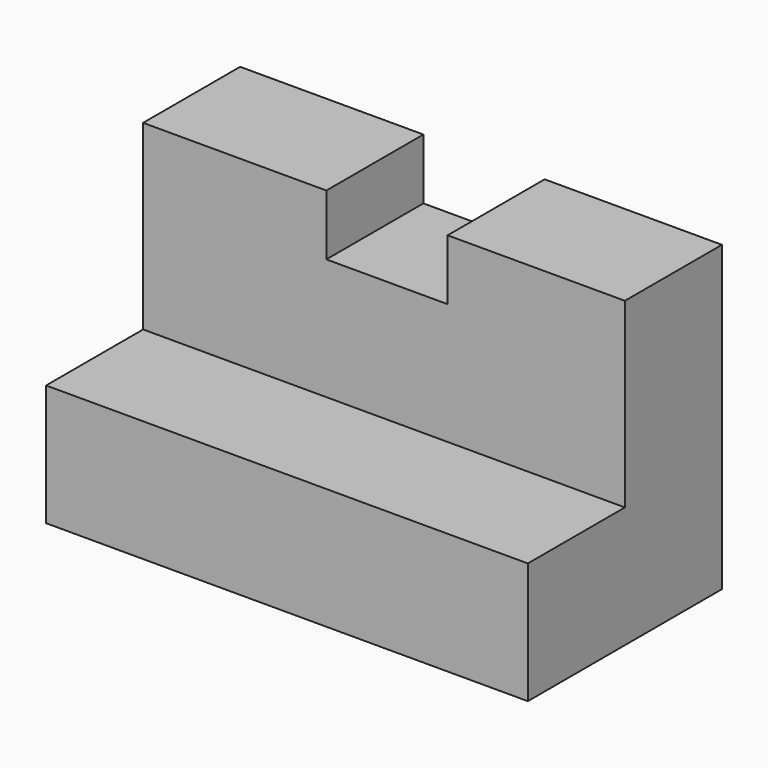
from build123d import *

# Parameters (mm, degrees)
F1_DEPTH = 25.4
F2_DEPTH = 38.1
F3_W     = 12.7
F3_H     = 6.35
F4_DEPTH = 12.7
F5_W     = 13.048822
F5_H     = 19.05
F6_DEPTH = 25.4
F7_W     = 13.048822
F7_H     = 12.7
F8_DEPTH = 25.4


with BuildPart() as f1:
    # F0 (on Right) → F1 (new body)
    with BuildSketch(Plane.YZ):
        Polygon((-12.7, 0), (-12.7, -12.7), (12.7, -12.7), (12.7, 19.05), (0, 19.05), (0, 0), align=None)
    extrude(amount=F1_DEPTH)

    # F1_face (on face) → F2 (join)
    with BuildSketch(Plane(origin=(25.4, 2.721429, 0.453571), x_dir=(0, 1, 0), z_dir=(1, 0, 0))):
        Polygon((-15.421429, -0.453571), (-15.421429, -13.153571), (9.978571, -13.153571), (9.978571, 18.596429), (-2.721429, 18.596429), (-2.721429, -0.453571), align=None)
    extrude(amount=F2_DEPTH)

    # F3 (on face) → F4 (cut)
    with BuildSketch(Plane.XZ):
        with Locations((25.540019, 15.875)):
            Rectangle(F3_W, F3_H)
    extrude(amount=-F4_DEPTH, mode=Mode.SUBTRACT)

    # F5 (on face) → F6 (cut)
    with BuildSketch(Plane.XZ):
        with Locations((56.975589, 9.525)):
            Rectangle(F5_W, F5_H)
    extrude(amount=-F6_DEPTH, mode=Mode.SUBTRACT)

    # F7 (on face) → F8 (cut)
    with BuildSketch(Plane.XZ.offset(12.7)):
        with Locations((56.975589, -6.35)):
            Rectangle(F7_W, F7_H)
    extrude(amount=-F8_DEPTH, mode=Mode.SUBTRACT)


solid = f1.part
